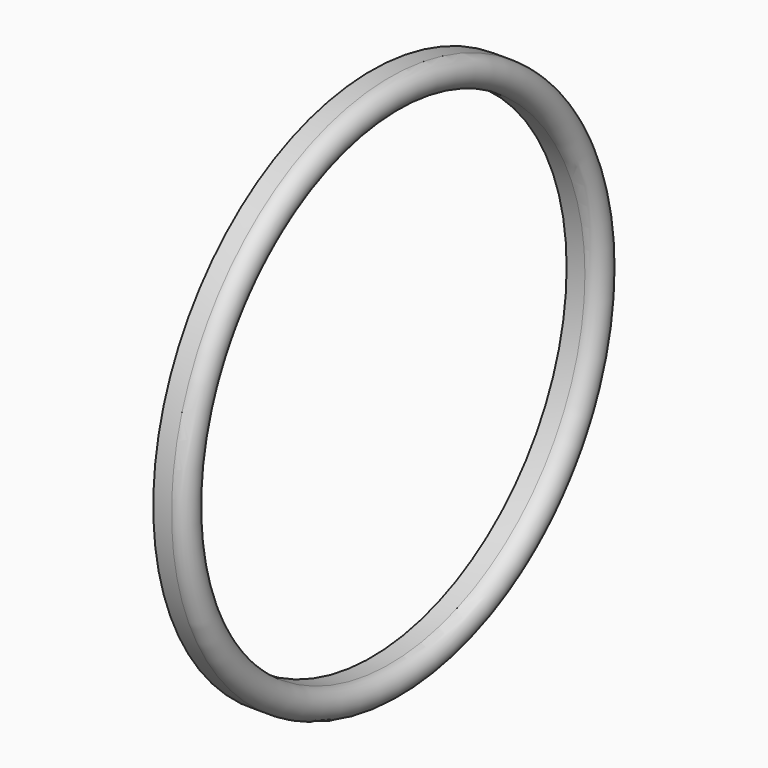
from build123d import *

# Parameters (mm, degrees)
F0_W = 2.25
F0_H = 3.5


with BuildPart() as f1:
    # F0 (on Top) → F1 (revolve)
    with BuildSketch(Plane.XY):
        with Locations((1.125, 31.75)):
            Rectangle(F0_W, F0_H)
        with BuildLine():
            ThreePointArc((2.25, 30), (4, 31.75), (2.25, 33.5))
            Line((2.25, 33.5), (2.25, 30))
        make_face()
    revolve(axis=Axis((0.417635, 0, 0), (1, 0, 0)))


solid = f1.part
